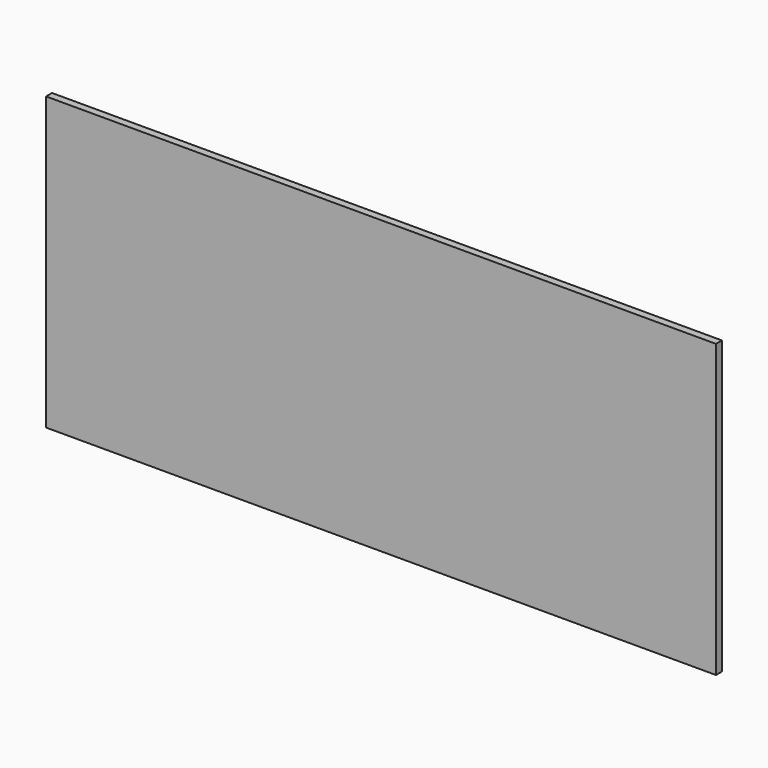
from build123d import *

# Parameters (mm, degrees)
F0_W     = 285.046042
F0_H     = 124.05932
F1_DEPTH = 3.175
F2_R     = 12.7
F3_DEPTH = 25.4


with BuildPart() as f1:
    # F0 (on Front) → F1 (new body)
    with BuildSketch(Plane.XZ):
        Rectangle(F0_W, F0_H)
    extrude(amount=-F1_DEPTH)

    # F2 (on face) → F3 (join)
    with BuildSketch(Plane(origin=(0, 3.175, 0), x_dir=(-1, 0, 0), z_dir=(0, 1, 0))):
        Circle(F2_R)
    extrude(amount=F3_DEPTH)


solid = f1.part
